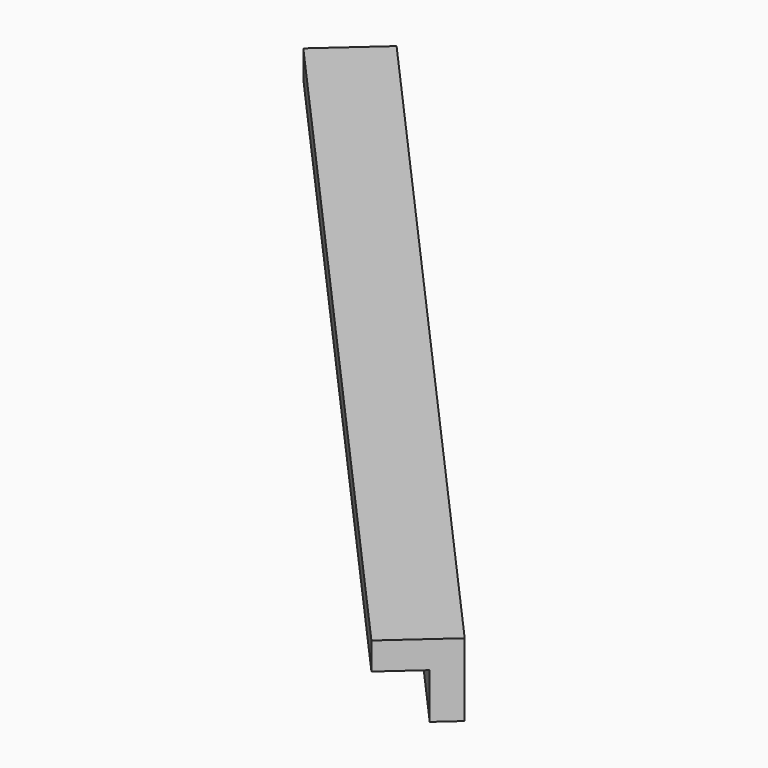
from build123d import *

# Parameters (mm, degrees)
BOX135_W               = 0.8
BOX135_H               = 11
BOX135_DEPTH           = 0.8
BOX136_W               = 0.8
BOX136_H               = 11
BOX136_DEPTH           = 0.8
CUT071_PLACEMENT_ANGLE = 41.7


with BuildPart() as cubo135:
    # Box135 → Box135 (new body)
    with BuildSketch(Plane.XY):
        with Locations((0.4, 5.5)):
            Rectangle(BOX135_W, BOX135_H)
    extrude(amount=BOX135_DEPTH)


with BuildPart() as obj1:
    # Box136 → Box136 (new body)
    with BuildSketch(Plane(origin=(0.3, 0, 0.3), x_dir=(1, 0, 0), z_dir=(0, 0, 1))):
        with Locations((0.4, 5.5)):
            Rectangle(BOX136_W, BOX136_H)
    extrude(amount=BOX136_DEPTH)

    # Cut071: cut Cubo135
    add(cubo135.part, mode=Mode.SUBTRACT)


with BuildPart() as obj1_1:
    # Cut071 placement: moved
    add(obj1.part.moved(Location((-148, 167.2, -1.45))).rotate(Axis((-148, 167.2, -1.45), (0, 0, 1)), CUT071_PLACEMENT_ANGLE))


solid = obj1_1.part
